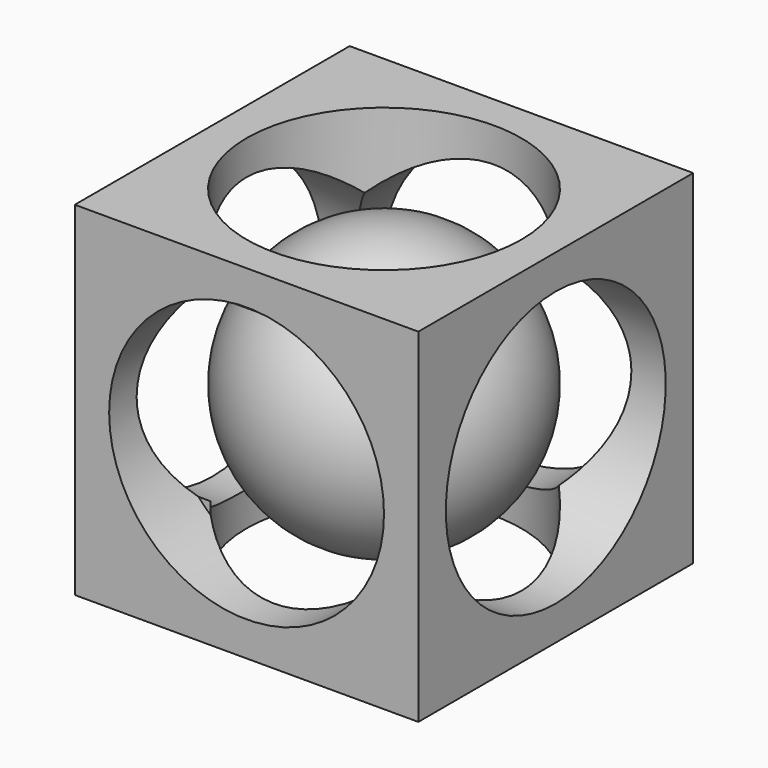
from build123d import *

# Parameters (mm, degrees)
CYLINDER001_R     = 12
CYLINDER001_DEPTH = 30
CYLINDER002_R     = 12
CYLINDER002_DEPTH = 20
CYLINDER003_R     = 12
CYLINDER003_DEPTH = 20
CYLINDER004_R     = 12
CYLINDER004_DEPTH = 20
CYLINDER005_R     = 12
CYLINDER005_DEPTH = 20
CYLINDER_R        = 12
CYLINDER_DEPTH    = 20
BOX_W             = 30
BOX_H             = 30
BOX_DEPTH         = 30


with BuildPart() as cylinder001:
    # Cylinder001 → Cylinder001 (new body)
    with BuildSketch(Plane(origin=(-4, 15, 15), x_dir=(0, 0, -1), z_dir=(1, 0, 0))):
        Circle(CYLINDER001_R)
    extrude(amount=CYLINDER001_DEPTH)


with BuildPart() as cylinder002:
    # Cylinder002 → Cylinder002 (new body)
    with BuildSketch(Plane(origin=(15, 15, 23), x_dir=(1, 0, 0), z_dir=(0, 0, 1))):
        Circle(CYLINDER002_R)
    extrude(amount=CYLINDER002_DEPTH)


with BuildPart() as cylinder003:
    # Cylinder003 → Cylinder003 (new body)
    with BuildSketch(Plane(origin=(15, 15, -3), x_dir=(1, 0, 0), z_dir=(0, 0, 1))):
        Circle(CYLINDER003_R)
    extrude(amount=CYLINDER003_DEPTH)


with BuildPart() as cylinder004:
    # Cylinder004 → Cylinder004 (new body)
    with BuildSketch(Plane(origin=(15, 6, 15), x_dir=(1, 0, 0), z_dir=(0, -1, 0))):
        Circle(CYLINDER004_R)
    extrude(amount=CYLINDER004_DEPTH)


with BuildPart() as cylinder005:
    # Cylinder005 → Cylinder005 (new body)
    with BuildSketch(Plane(origin=(15, 34, 15), x_dir=(1, 0, 0), z_dir=(0, -1, 0))):
        Circle(CYLINDER005_R)
    extrude(amount=CYLINDER005_DEPTH)


with BuildPart() as fusion:
    # Cylinder → Cylinder (new body)
    with BuildSketch(Plane(origin=(24, 15, 15), x_dir=(0, 0, -1), z_dir=(1, 0, 0))):
        Circle(CYLINDER_R)
    extrude(amount=CYLINDER_DEPTH)

    # Fusion: union Cylinder001, Cylinder002, Cylinder003, Cylinder004, Cylinder005
    add(cylinder001.part)
    add(cylinder002.part)
    add(cylinder003.part)
    add(cylinder004.part)
    add(cylinder005.part)


with BuildPart() as cut:
    # Box → Box (new body)
    with BuildSketch(Plane.XY):
        with Locations((15, 15)):
            Rectangle(BOX_W, BOX_H)
    extrude(amount=BOX_DEPTH)

    # Cut: cut Fusion
    add(fusion.part, mode=Mode.SUBTRACT)


with BuildPart() as sphere:
    # Sphere → Sphere (revolve)
    with BuildSketch(Plane(origin=(15, 15, 15), x_dir=(1, 0, 0), z_dir=(0, -1, 0))):
        with BuildLine():
            ThreePointArc((0, -12), (12, 0), (0, 12))
            Line((0, 12), (0, -12))
        make_face()
    revolve(axis=Axis((15, 15, 15), (0, 0, 1)))


solid = Compound([cut.part, sphere.part])
